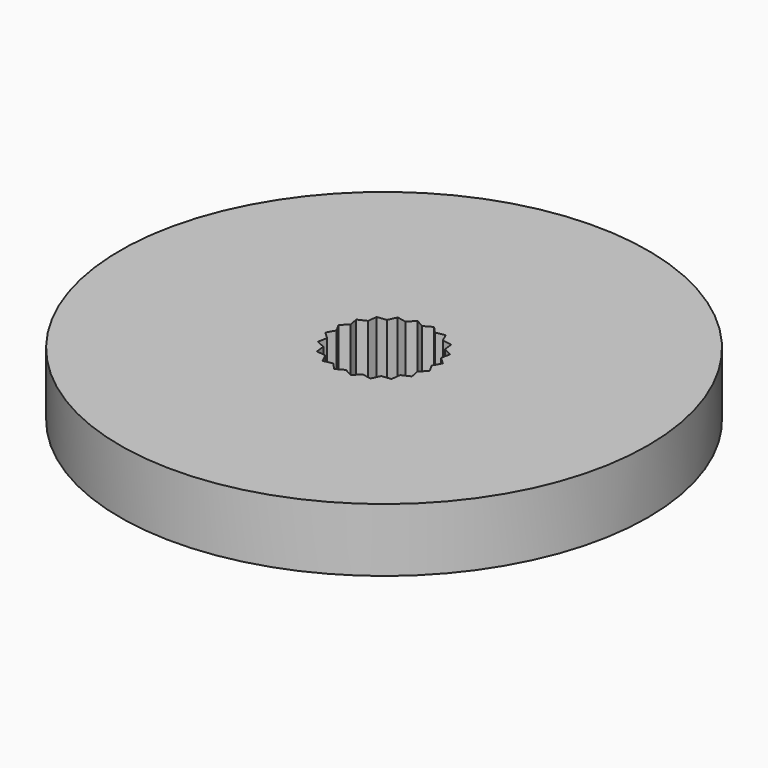
from build123d import *

# Parameters (mm, degrees)
F0_R     = 12.5
F1_DEPTH = 3


with BuildPart() as f1:
    # F0 (on Top) → F1 (new body)
    with BuildSketch(Plane.XY):
        Circle(F0_R)
        Polygon((2.469221, 0.391086), (2.25, 0), (2.469221, -0.391086), (2.139877, -0.695288), (2.227516, -1.134976), (1.820288, -1.322517), (1.767767, -1.767767), (1.322517, -1.820288), (1.134976, -2.227516), (0.695288, -2.139877), (0.391086, -2.469221), (0, -2.25), (-0.391086, -2.469221), (-0.695288, -2.139877), (-1.134976, -2.227516), (-1.322517, -1.820288), (-1.767767, -1.767767), (-1.820288, -1.322517), (-2.227516, -1.134976), (-2.139877, -0.695288), (-2.469221, -0.391086), (-2.25, 0), (-2.469221, 0.391086), (-2.139877, 0.695288), (-2.227516, 1.134976), (-1.820288, 1.322517), (-1.767767, 1.767767), (-1.322517, 1.820288), (-1.134976, 2.227516), (-0.695288, 2.139877), (-0.391086, 2.469221), (0, 2.25), (0.391086, 2.469221), (0.695288, 2.139877), (1.134976, 2.227516), (1.322517, 1.820288), (1.767767, 1.767767), (1.820288, 1.322517), (2.227516, 1.134976), (2.139877, 0.695288), align=None, mode=Mode.SUBTRACT)
    extrude(amount=F1_DEPTH)


solid = f1.part
